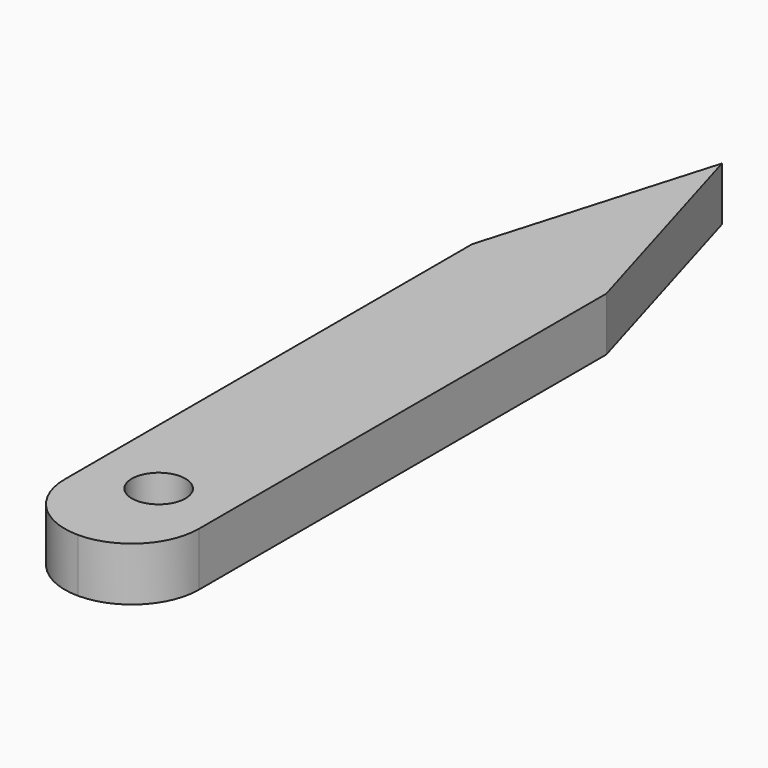
from build123d import *

# Parameters (mm, degrees)
F0_R     = 4
F1_DEPTH = 8


with BuildPart() as f1:
    # F0 (on Top) → F1 (new body)
    with BuildSketch(Plane.XY):
        with BuildLine():
            Line((0, 85.948586), (0, 10))
            ThreePointArc((0, 10), (2.928932, 2.928932), (10, 0))
            ThreePointArc((10, 0), (17.071068, 2.928932), (20, 10))
            Line((20, 10), (20, 85.948586))
            Line((20, 85.948586), (10, 120))
            Line((10, 120), (0, 85.948586))
        make_face()
        with Locations((10, 15)):
            Circle(F0_R, mode=Mode.SUBTRACT)
    extrude(amount=F1_DEPTH)


solid = f1.part
